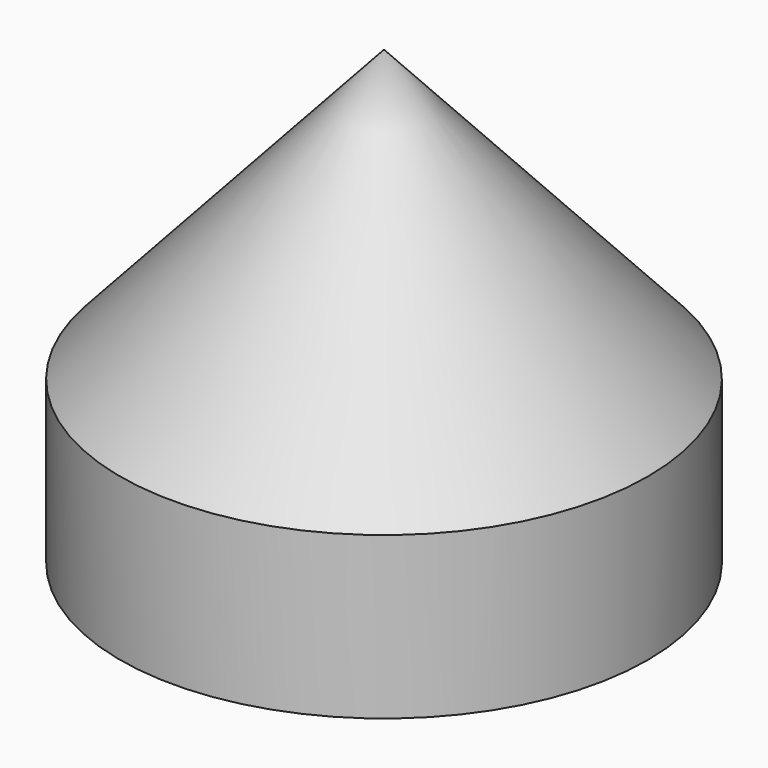
from build123d import *

# Parameters (mm, degrees)
F0_R     = 41.500303
F1_DEPTH = 25.4


with BuildPart() as f1:
    # F0 (on Top) → F1 (new body)
    with BuildSketch(Plane.XY):
        Circle(F0_R)
    extrude(amount=F1_DEPTH)

    # F2 (on Front) → F3 (revolve)
    with BuildSketch(Plane.XZ):
        Polygon((41.500303, 25.4), (0, 71.014792), (0, 25.4), align=None)
    revolve(axis=Axis((0, 0, 48.207396), (0, 0, -1)))


solid = f1.part
